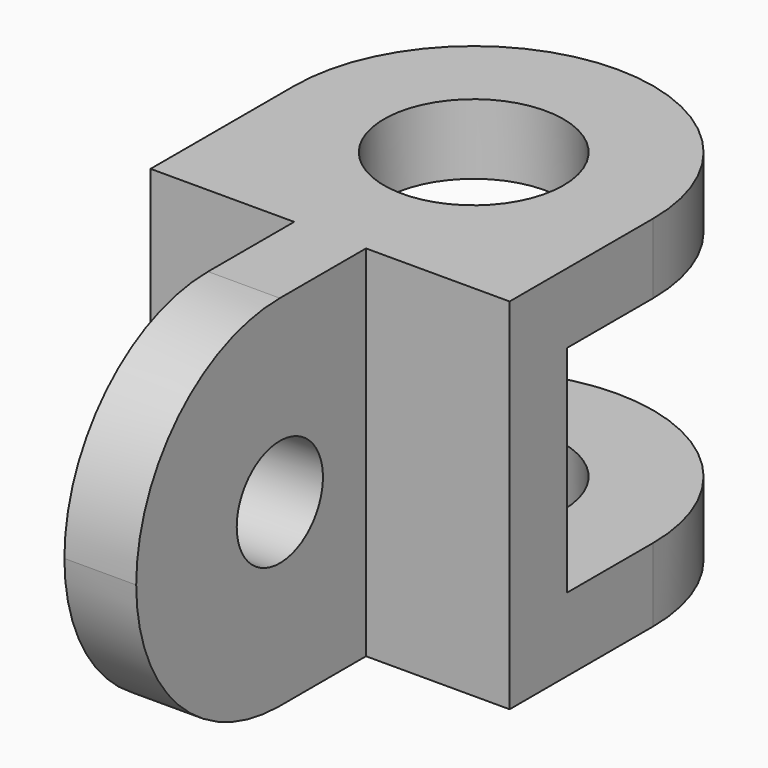
from build123d import *

# Parameters (mm, degrees)
F0_W     = 20
F0_H     = 50
F0_R     = 25
F0_H_2   = 30
F1_DEPTH = 100
F2_W     = 30
F2_H     = 60
F2_W_2   = 55.66628
F3_DEPTH = 100.001
F5_DEPTH = 60.001
F4_R     = 15
F6_DEPTH = 60.001


with BuildPart() as f1:
    # F0 (on Top) → F1 (new body)
    with BuildSketch(Plane.XY):
        with Locations((50, -55)):
            Rectangle(F0_W, F0_H)
        with BuildLine():
            Line((0, 50), (0, 0))
            Line((0, 0), (40, 0))
            Line((40, 0), (60, 0))
            Line((60, 0), (100, 0))
            Line((100, 0), (100, 50))
            ThreePointArc((100, 50), (50, 100), (0, 50))
        make_face()
        with Locations((50, 50)):
            Circle(F0_R, mode=Mode.SUBTRACT)
        with Locations((50, -15)):
            Rectangle(F0_W, F0_H_2)
    extrude(amount=-F1_DEPTH)

    # F2 (on face) → F3 (cut, through all)
    with BuildSketch(Plane(origin=(0, 0, 0), x_dir=(0, -1, 0), z_dir=(-1, 0, 0))):
        with Locations((-35, -49.526112)):
            Rectangle(F2_W, F2_H)
        with Locations((-77.83314, -49.526112)):
            Rectangle(F2_W_2, F2_H)
    extrude(amount=-F3_DEPTH, mode=Mode.SUBTRACT)

    # F4 (on face) → F5 (cut, through all)
    with BuildSketch(Plane(origin=(40, 0, 0), x_dir=(0, -1, 0), z_dir=(-1, 0, 0))):
        with BuildLine():
            Line((80, -100), (80, -50))
            ThreePointArc((80, -50), (65.355339, -85.355339), (30, -100))
            Line((30, -100), (80, -100))
        make_face()
        with BuildLine():
            Line((80, 0), (30, 0))
            ThreePointArc((30, 0), (65.355339, -14.644661), (80, -50))
            Line((80, -50), (80, 0))
        make_face()
    extrude(amount=-F5_DEPTH, mode=Mode.SUBTRACT)

    # F4 (on face) → F6 (cut, through all)
    with BuildSketch(Plane(origin=(40, 0, 0), x_dir=(0, -1, 0), z_dir=(-1, 0, 0))):
        with Locations((30, -50)):
            Circle(F4_R)
    extrude(amount=-F6_DEPTH, mode=Mode.SUBTRACT)


solid = f1.part
